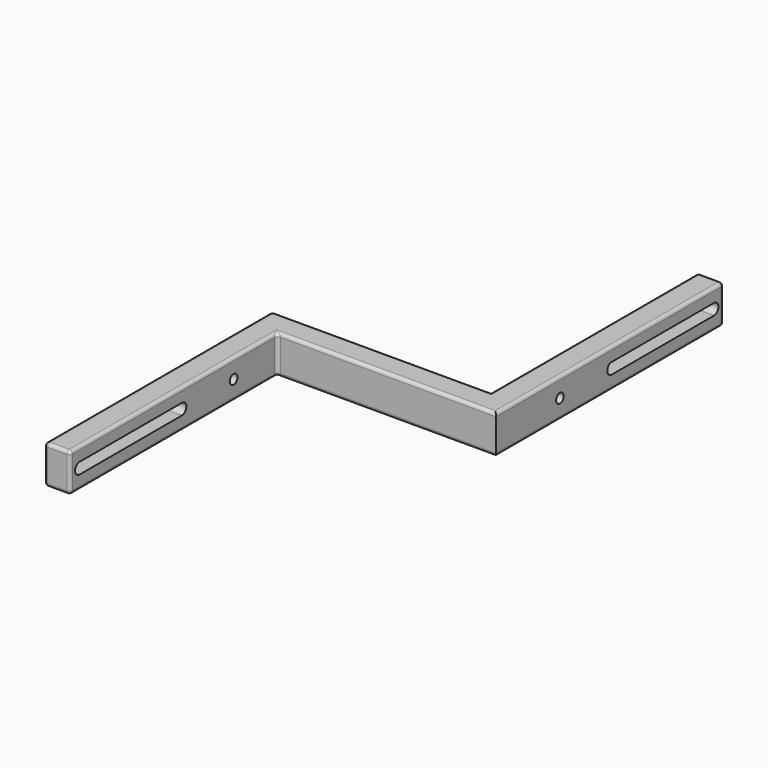
from build123d import *

# Parameters (mm, degrees)
PAD_DEPTH       = 12
POCKET_DEPTH    = 8
SKETCH002_R     = 1.5
POCKET001_DEPTH = 8
SKETCH003_R     = 1.5
POCKET002_DEPTH = 8
FILLET_R        = 1
FILLET001_R     = 1
FILLET002_R     = 1
FILLET003_R     = 1
FILLET004_R     = 1
FILLET005_R     = 1
FILLET006_R     = 1
FILLET007_R     = 1


with BuildPart() as part:
    # Sketch → Pad (new body)
    with BuildSketch(Plane.XY):
        Polygon((8, 0), (0, 0), (0, 89), (68.5, 89), (68.5, 170), (76.5, 170), (76.5, 81), (8, 81), align=None)
    extrude(amount=PAD_DEPTH)

    # Sketch001 (on Face2 of Pad) → Pocket (cut)
    with BuildSketch(Plane(origin=(0, 0, 0), x_dir=(0, -1, 0), z_dir=(-1, 0, 0))):
        with BuildLine():
            ThreePointArc((-43.75, 7.75), (-45.5, 6), (-43.75, 4.25))
            Line((-43.75, 4.25), (-3.75, 4.25))
            ThreePointArc((-3.75, 4.25), (-2, 6), (-3.75, 7.75))
            Line((-3.75, 7.75), (-43.75, 7.75))
        make_face()
    extrude(amount=-POCKET_DEPTH, mode=Mode.SUBTRACT)

    # Sketch002 (on Face3 of Pocket) → Pocket001 (cut)
    with BuildSketch(Plane(origin=(0, 0, 0), x_dir=(0, -1, 0), z_dir=(-1, 0, 0))):
        with Locations((-64, 6)):
            Circle(SKETCH002_R)
    extrude(amount=-POCKET001_DEPTH, mode=Mode.SUBTRACT)

    # Sketch003 (on Face15 of Pocket001) → Pocket002 (cut)
    with BuildSketch(Plane.YZ.offset(76.5)):
        with Locations((106, 6)):
            Circle(SKETCH003_R)
        with BuildLine():
            ThreePointArc((126.25, 7.75), (124.5, 6), (126.25, 4.25))
            Line((126.25, 4.25), (166.25, 4.25))
            ThreePointArc((166.25, 4.25), (168, 6), (166.25, 7.75))
            Line((166.25, 7.75), (126.25, 7.75))
        make_face()
    extrude(amount=-POCKET002_DEPTH, mode=Mode.SUBTRACT)

    # Fillet
    fillet_edges = [part.edges().sort_by_distance(p)[0] for p in [
        (76.5, 125.5, 0),
        (42.25, 81, 0),
        (8, 40.5, 0),
        (8, 40.5, 12),
        (42.25, 81, 12),
        (76.5, 125.5, 12),
    ]]
    fillet(fillet_edges, radius=FILLET_R)

    # Fillet001
    fillet001_edges = [part.edges().sort_by_distance(p)[0] for p in [
        (68.5, 170, 6),
    ]]
    fillet(fillet001_edges, radius=FILLET001_R)

    # Fillet002
    fillet002_edges = [part.edges().sort_by_distance(p)[0] for p in [
        (68.5, 129, 12),
    ]]
    fillet(fillet002_edges, radius=FILLET002_R)

    # Fillet003
    fillet003_edges = [part.edges().sort_by_distance(p)[0] for p in [
        (34.25, 89, 0),
    ]]
    fillet(fillet003_edges, radius=FILLET003_R)

    # Fillet004
    fillet004_edges = [part.edges().sort_by_distance(p)[0] for p in [
        (34.25, 89, 12),
    ]]
    fillet(fillet004_edges, radius=FILLET004_R)

    # Fillet005
    fillet005_edges = [part.edges().sort_by_distance(p)[0] for p in [
        (0, 0, 6),
    ]]
    fillet(fillet005_edges, radius=FILLET005_R)

    # Fillet006
    fillet006_edges = [part.edges().sort_by_distance(p)[0] for p in [
        (0, 44.5, 12),
    ]]
    fillet(fillet006_edges, radius=FILLET006_R)

    # Fillet007
    fillet007_edges = [part.edges().sort_by_distance(p)[0] for p in [
        (8, 81, 6),
    ]]
    fillet(fillet007_edges, radius=FILLET007_R)


solid = part.part
